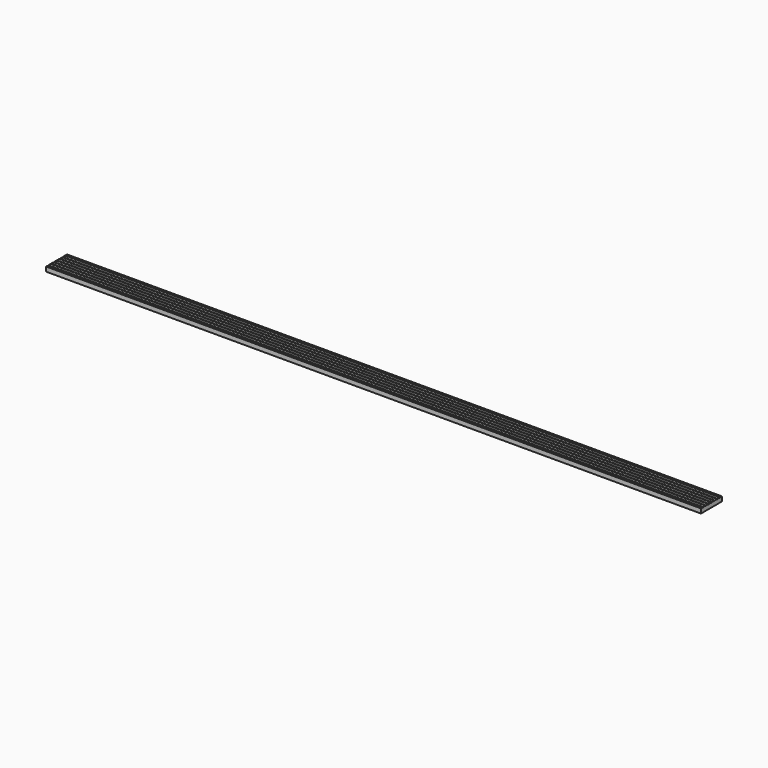
from build123d import *

# Parameters (mm, degrees)
F0_W     = 144
F0_H     = 25
F1_DEPTH = 3600
F2_W     = 5
F2_H     = 2
F3_DEPTH = 3600.001
F4_R     = 0.5


with BuildPart() as f1:
    # F0 (on Right) → F1 (new body)
    with BuildSketch(Plane.YZ):
        Rectangle(F0_W, F0_H)
    extrude(amount=F1_DEPTH)

    # F2 (on face) → F3 (cut, through all)
    with BuildSketch(Plane.YZ.offset(3600)):
        with Locations((-59.5, 11.5)):
            Rectangle(F2_W, F2_H)
        with Locations((-39.6666666667, 11.5)):
            Rectangle(F2_W, F2_H)
        with Locations((-19.8333333333, 11.5)):
            Rectangle(F2_W, F2_H)
        with Locations((0, 11.5)):
            Rectangle(F2_W, F2_H)
        with Locations((19.8333333333, 11.5)):
            Rectangle(F2_W, F2_H)
        with Locations((39.6666666667, 11.5)):
            Rectangle(F2_W, F2_H)
        with Locations((59.5, 11.5)):
            Rectangle(F2_W, F2_H)
    extrude(amount=-F3_DEPTH, mode=Mode.SUBTRACT)

    # F4
    f4_edges = [f1.edges().sort_by_distance(p)[0] for p in [
        (1800, -62, 12.5),
        (1800, -62, 10.5),
        (1800, -57, 12.5),
        (1800, -57, 10.5),
        (1800, -37.166667, 12.5),
        (1800, -37.166667, 10.5),
        (1800, -17.333333, 12.5),
        (1800, -17.333333, 10.5),
        (1800, 2.5, 12.5),
        (1800, 2.5, 10.5),
        (1800, 22.333333, 12.5),
        (1800, 22.333333, 10.5),
        (1800, 42.166667, 12.5),
        (1800, 42.166667, 10.5),
        (1800, 62, 12.5),
        (1800, 62, 10.5),
        (1800, 57, 12.5),
        (1800, 57, 10.5),
        (1800, 37.166667, 12.5),
        (1800, 37.166667, 10.5),
        (1800, 17.333333, 12.5),
        (1800, 17.333333, 10.5),
        (1800, -2.5, 12.5),
        (1800, -2.5, 10.5),
        (1800, -22.333333, 12.5),
        (1800, -22.333333, 10.5),
        (1800, -42.166667, 12.5),
        (1800, -42.166667, 10.5),
    ]]
    fillet(f4_edges, radius=F4_R)


solid = f1.part
